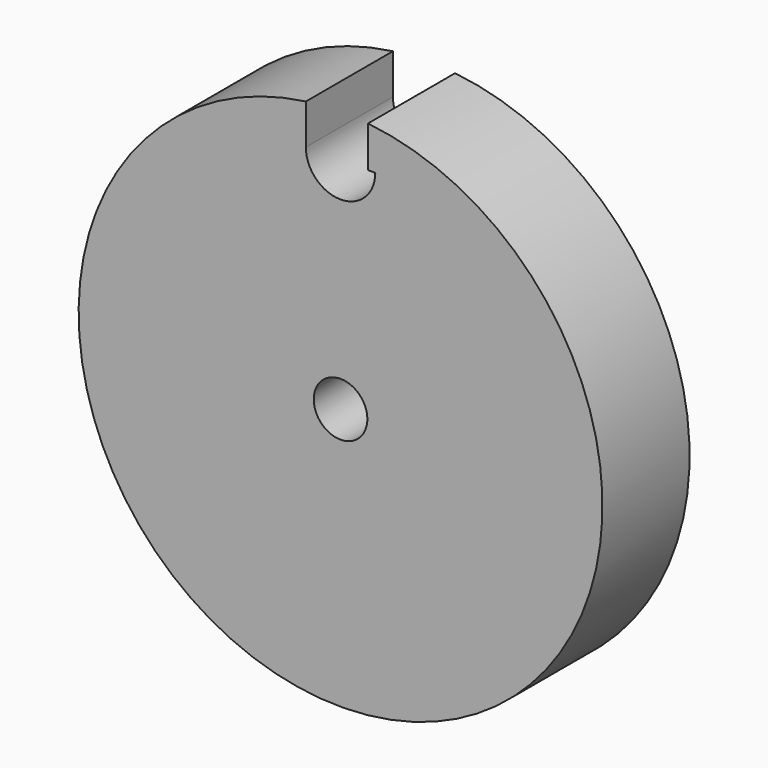
from build123d import *

# Parameters (mm, degrees)
F0_R     = 61.10067
F1_DEPTH = 25.4
F3_D     = 12.5
F5_DEPTH = 25.4


with BuildPart() as f1:
    # F0 (on Front) → F1 (new body)
    with BuildSketch(Plane.XZ):
        Circle(F0_R)
    extrude(amount=F1_DEPTH)

    # F3 (through all)
    with Locations(Plane(origin=(0, 0, 0), x_dir=(1, 0, 0), z_dir=(0, 1, 0))):
        with Locations((0, 0)):
            Hole(F3_D / 2)

    # F4 (on face) → F5 (cut)
    with BuildSketch(Plane(origin=(0, 0, 0), x_dir=(-1, 0, 0), z_dir=(0, 1, 0))):
        with BuildLine():
            Line((-6.393978, 51.178693), (-8.104244, 51.178693))
            ThreePointArc((-8.104244, 51.178693), (0, 43.07445), (8.104244, 51.178693))
            Line((8.104244, 51.178693), (8.104244, 60.765195))
            ThreePointArc((8.104244, 60.765195), (0.855133, 68.014306), (-6.393978, 60.765195))
            Line((-6.393978, 60.765195), (-6.393978, 51.178693))
        make_face()
    extrude(amount=-F5_DEPTH, mode=Mode.SUBTRACT)


solid = f1.part
